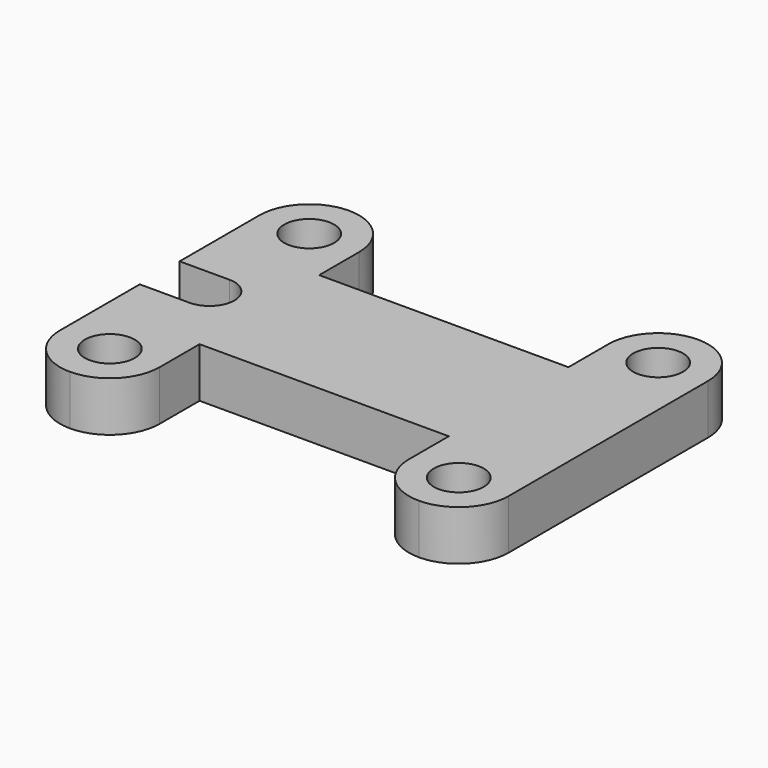
from build123d import *

# Parameters (mm, degrees)
F0_R     = 6.35
F1_DEPTH = 12.7


with BuildPart() as f1:
    # F0 (on Top) → F1 (new body)
    with BuildSketch(Plane.XY):
        with BuildLine():
            ThreePointArc((76.2, 0), (79.919744, -8.980256), (88.9, -12.7))
            ThreePointArc((88.9, -12.7), (97.880256, -8.980256), (101.6, 0))
            Line((101.6, 0), (101.6, 12.7))
            Line((101.6, 12.7), (101.6, 50.8))
            Line((101.6, 50.8), (101.6, 63.5))
            ThreePointArc((101.6, 63.5), (97.880256, 72.480256), (88.9, 76.2))
            ThreePointArc((88.9, 76.2), (79.919744, 72.480256), (76.2, 63.5))
            Line((76.2, 63.5), (76.2, 50.8))
            Line((76.2, 50.8), (12.7, 50.8))
            Line((12.7, 50.8), (12.7, 63.5))
            ThreePointArc((12.7, 63.5), (8.980256, 72.480256), (0, 76.2))
            ThreePointArc((0, 76.2), (-8.980256, 72.480256), (-12.7, 63.5))
            Line((-12.7, 63.5), (-12.7, 50.8))
            Line((-12.7, 50.8), (-12.7, 38.1))
            Line((-12.7, 38.1), (0, 38.1))
            ThreePointArc((0, 38.1), (4.490128, 36.240128), (6.35, 31.75))
            ThreePointArc((6.35, 31.75), (4.490128, 27.259872), (0, 25.4))
            Line((0, 25.4), (-12.7, 25.4))
            Line((-12.7, 25.4), (-12.7, 12.7))
            Line((-12.7, 12.7), (-12.7, 0))
            ThreePointArc((-12.7, 0), (-8.980256, -8.980256), (0, -12.7))
            ThreePointArc((0, -12.7), (8.980256, -8.980256), (12.7, 0))
            Line((12.7, 0), (12.7, 12.7))
            Line((12.7, 12.7), (76.2, 12.7))
            Line((76.2, 12.7), (76.2, 0))
        make_face()
        Circle(F0_R, mode=Mode.SUBTRACT)
        with Locations((88.9, 0)):
            Circle(F0_R, mode=Mode.SUBTRACT)
        with Locations((0, 63.5)):
            Circle(F0_R, mode=Mode.SUBTRACT)
        with Locations((88.9, 63.5)):
            Circle(F0_R, mode=Mode.SUBTRACT)
    extrude(amount=F1_DEPTH)


solid = f1.part
